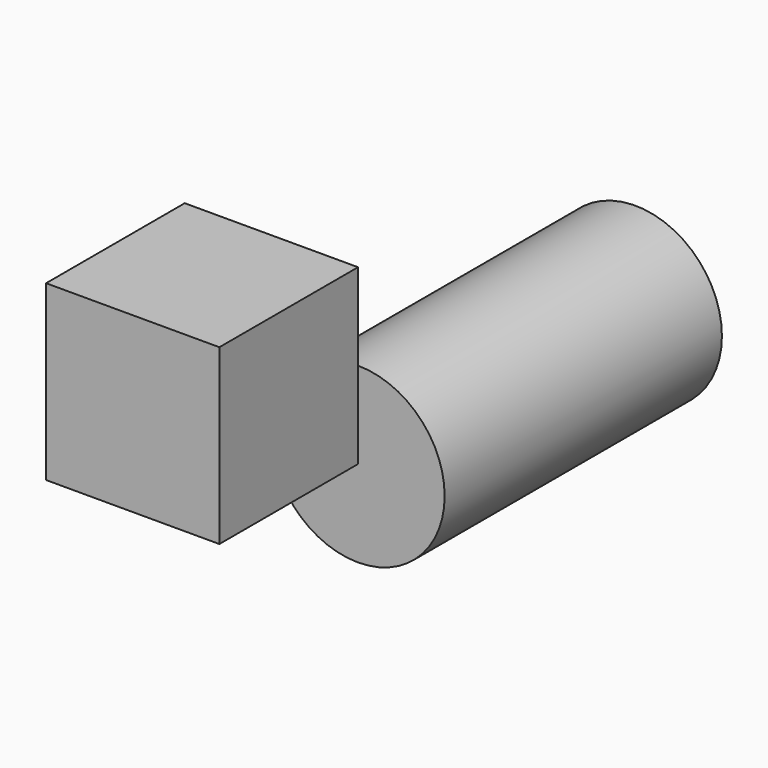
from build123d import *

# Parameters (mm, degrees)
F0_R     = 2.5
F1_DEPTH = 10
F2_W     = 10
F2_H     = 10
F3_DEPTH = 5
F5_DEPTH = 5


with BuildPart() as f1:
    # F0 (on Front) → F1 (new body)
    with BuildSketch(Plane.XZ):
        Circle(F0_R)
    extrude(amount=F1_DEPTH)

    # F2 (on face) → F3 (join)
    with BuildSketch(Plane.XZ.offset(10)):
        Rectangle(F2_W, F2_H)
    extrude(amount=F3_DEPTH)

    # F4 (on face) → F5 (cut, through all)
    with BuildSketch(Plane.XZ.offset(15)):
        Polygon((0, 5), (0, 0), (-5, 0), (-5, -5), (5, -5), (5, 0), (5, 5), align=None)
    extrude(amount=-F5_DEPTH, mode=Mode.SUBTRACT)


solid = f1.part
